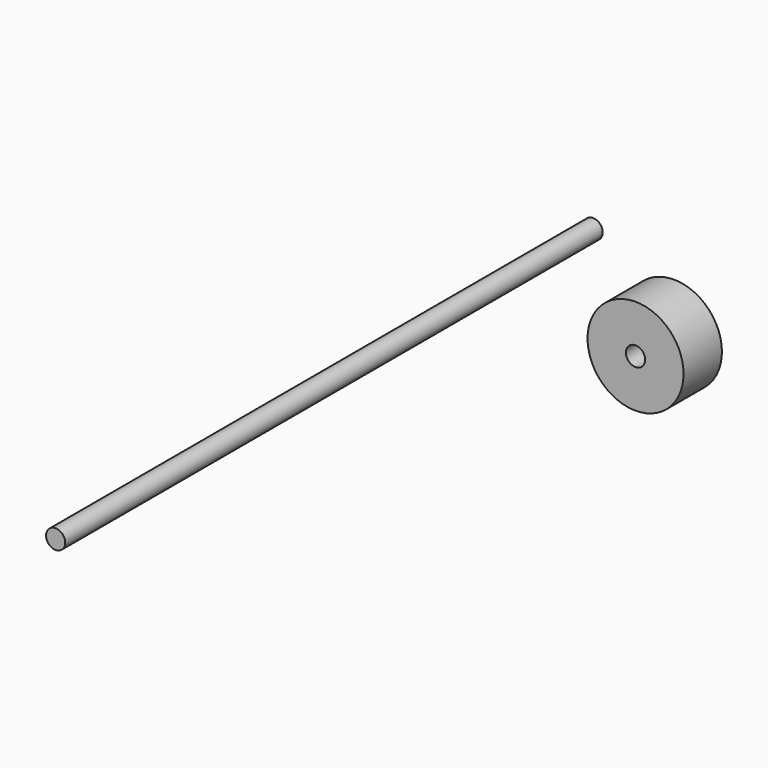
from build123d import *

# Parameters (mm, degrees)
F0_R     = 1.26873
F1_DEPTH = 88.9
F2_R     = 6.35
F2_R_2   = 1.27
F3_DEPTH = 6.35


with BuildPart() as f1:
    # F0 (on Front) → F1 (new body)
    with BuildSketch(Plane.XZ):
        with Locations((-54.470886, 37.978835)):
            Circle(F0_R)
    extrude(amount=F1_DEPTH)


with BuildPart() as f3:
    # F2 (on Front) → F3 (new body)
    with BuildSketch(Plane.XZ):
        with Locations((-43.774951, 29.207721)):
            Circle(F2_R)
        with Locations((-43.774951, 29.207721)):
            Circle(F2_R_2, mode=Mode.SUBTRACT)
    extrude(amount=F3_DEPTH)


solid = Compound([f1.part, f3.part])
